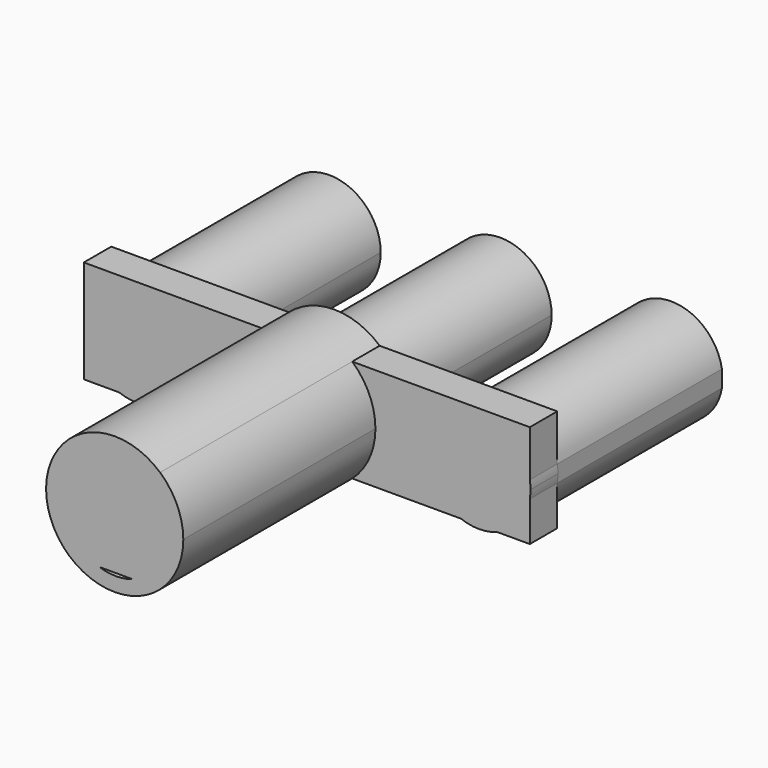
from build123d import *

# Parameters (mm, degrees)
F1_DEPTH = 5
F2_DEPTH = 40
F3_DEPTH = 30


with BuildPart() as f1:
    # F0 (on Front) → F1 (new body)
    with BuildSketch(Plane.XZ):
        with BuildLine():
            Line((-22.0933434024, -7.5), (-27.3651991933, -7.5))
            ThreePointArc((-27.3651991933, -7.5), (-24.7292712978, -7.9784699581), (-22.0933434024, -7.5))
        make_face()
        with BuildLine():
            Line((27.7367906295, -7.5), (22.4649348386, -7.5))
            ThreePointArc((22.4649348386, -7.5), (25.1008627341, -7.9784699581), (27.7367906295, -7.5))
        make_face()
        with BuildLine():
            Line((32.5, -7.5), (32.5, -1.7043442256))
            ThreePointArc((32.5, -1.7043442256), (30.8950874158, -5.2405031728), (27.7367906295, -7.5))
            Line((27.7367906295, -7.5), (32.5, -7.5))
        make_face()
        with BuildLine():
            ThreePointArc((32.6008627341, -0.4784699581), (32.5756045187, 0.1365383775), (32.5, 0.7474043095))
            Line((32.5, 0.7474043095), (32.5, -1.7043442256))
            ThreePointArc((32.5, -1.7043442256), (32.5756045187, -1.0934782936), (32.6008627341, -0.4784699581))
        make_face()
        with BuildLine():
            Line((32.5, 7.5), (6.6143782777, 7.5))
            ThreePointArc((6.6143782777, 7.5), (9.1143782777, 4.1143782777), (10, 0))
            ThreePointArc((10, 0), (9.1143782777, -4.1143782777), (6.6143782777, -7.5))
            Line((6.6143782777, -7.5), (22.4649348386, -7.5))
            ThreePointArc((22.4649348386, -7.5), (20.3388295194, 5.3157547236), (32.5, 0.7474043095))
            Line((32.5, 0.7474043095), (32.5, 7.5))
        make_face()
        with BuildLine():
            Line((6.6143782777, 7.5), (-6.6143782777, 7.5))
            ThreePointArc((-6.6143782777, 7.5), (-10, 0), (-6.6143782777, -7.5))
            Line((-6.6143782777, -7.5), (-2.2328131871, -7.5))
            ThreePointArc((-2.2328131871, -7.5), (-4.1794324094, 5.698071659), (7.6857957181, -0.4006809507))
            ThreePointArc((7.6857957181, -0.4006809507), (6.2845483278, -4.7659090782), (2.6044046233, -7.5))
            Line((2.6044046233, -7.5), (6.6143782777, -7.5))
            ThreePointArc((6.6143782777, -7.5), (9.1143782777, -4.1143782777), (10, 0))
            ThreePointArc((10, 0), (9.1143782777, 4.1143782777), (6.6143782777, 7.5))
        make_face()
        with BuildLine():
            Line((-6.6143782777, 7.5), (-32.5, 7.5))
            Line((-32.5, 7.5), (-32.5, -7.5))
            Line((-32.5, -7.5), (-27.3651991933, -7.5))
            ThreePointArc((-27.3651991933, -7.5), (-29.0001342542, 5.6867331698), (-17.2292712978, -0.4784699581))
            ThreePointArc((-17.2292712978, -0.4784699581), (-18.56406817, -4.7493329144), (-22.0933434024, -7.5))
            Line((-22.0933434024, -7.5), (-6.6143782777, -7.5))
            ThreePointArc((-6.6143782777, -7.5), (-10, 0), (-6.6143782777, 7.5))
        make_face()
        with BuildLine():
            ThreePointArc((7.6857957181, -0.4006809507), (-4.1794324094, 5.698071659), (-2.2328131871, -7.5))
            Line((-2.2328131871, -7.5), (2.6044046233, -7.5))
            ThreePointArc((2.6044046233, -7.5), (6.2845483278, -4.7659090782), (7.6857957181, -0.4006809507))
        make_face()
        with BuildLine():
            ThreePointArc((-17.2292712978, -0.4784699581), (-29.0001342542, 5.6867331698), (-27.3651991933, -7.5))
            Line((-27.3651991933, -7.5), (-22.0933434024, -7.5))
            ThreePointArc((-22.0933434024, -7.5), (-18.56406817, -4.7493329144), (-17.2292712978, -0.4784699581))
        make_face()
        with BuildLine():
            Line((32.5, -1.7043442256), (32.5, 0.7474043095))
            ThreePointArc((32.5, 0.7474043095), (20.3388295194, 5.3157547236), (22.4649348386, -7.5))
            Line((22.4649348386, -7.5), (27.7367906295, -7.5))
            ThreePointArc((27.7367906295, -7.5), (30.8950874158, -5.2405031728), (32.5, -1.7043442256))
        make_face()
    extrude(amount=F1_DEPTH)

    # F0 (on Front) → F2 (join)
    with BuildSketch(Plane.XZ):
        with BuildLine():
            ThreePointArc((7.6857957181, -0.4006809507), (-4.1794324094, 5.698071659), (-2.2328131871, -7.5))
            Line((-2.2328131871, -7.5), (2.6044046233, -7.5))
            ThreePointArc((2.6044046233, -7.5), (6.2845483278, -4.7659090782), (7.6857957181, -0.4006809507))
        make_face()
        with BuildLine():
            ThreePointArc((6.6143782777, 7.5), (0, 10), (-6.6143782777, 7.5))
            Line((-6.6143782777, 7.5), (6.6143782777, 7.5))
        make_face()
        with BuildLine():
            Line((-2.2328131871, -7.5), (-6.6143782777, -7.5))
            ThreePointArc((-6.6143782777, -7.5), (0, -10), (6.6143782777, -7.5))
            Line((6.6143782777, -7.5), (2.6044046233, -7.5))
            ThreePointArc((2.6044046233, -7.5), (0.1857957181, -7.9006809507), (-2.2328131871, -7.5))
        make_face()
        with BuildLine():
            Line((6.6143782777, 7.5), (-6.6143782777, 7.5))
            ThreePointArc((-6.6143782777, 7.5), (-10, 0), (-6.6143782777, -7.5))
            Line((-6.6143782777, -7.5), (-2.2328131871, -7.5))
            ThreePointArc((-2.2328131871, -7.5), (-4.1794324094, 5.698071659), (7.6857957181, -0.4006809507))
            ThreePointArc((7.6857957181, -0.4006809507), (6.2845483278, -4.7659090782), (2.6044046233, -7.5))
            Line((2.6044046233, -7.5), (6.6143782777, -7.5))
            ThreePointArc((6.6143782777, -7.5), (9.1143782777, -4.1143782777), (10, 0))
            ThreePointArc((10, 0), (9.1143782777, 4.1143782777), (6.6143782777, 7.5))
        make_face()
    extrude(amount=F2_DEPTH)

    # F0 (on Front) → F3 (join)
    with BuildSketch(Plane.XZ):
        with BuildLine():
            Line((32.5, -1.7043442256), (32.5, 0.7474043095))
            ThreePointArc((32.5, 0.7474043095), (20.3388295194, 5.3157547236), (22.4649348386, -7.5))
            Line((22.4649348386, -7.5), (27.7367906295, -7.5))
            ThreePointArc((27.7367906295, -7.5), (30.8950874158, -5.2405031728), (32.5, -1.7043442256))
        make_face()
        with BuildLine():
            ThreePointArc((-17.2292712978, -0.4784699581), (-29.0001342542, 5.6867331698), (-27.3651991933, -7.5))
            Line((-27.3651991933, -7.5), (-22.0933434024, -7.5))
            ThreePointArc((-22.0933434024, -7.5), (-18.56406817, -4.7493329144), (-17.2292712978, -0.4784699581))
        make_face()
        with BuildLine():
            ThreePointArc((7.6857957181, -0.4006809507), (-4.1794324094, 5.698071659), (-2.2328131871, -7.5))
            Line((-2.2328131871, -7.5), (2.6044046233, -7.5))
            ThreePointArc((2.6044046233, -7.5), (6.2845483278, -4.7659090782), (7.6857957181, -0.4006809507))
        make_face()
    extrude(amount=-F3_DEPTH)


solid = f1.part
